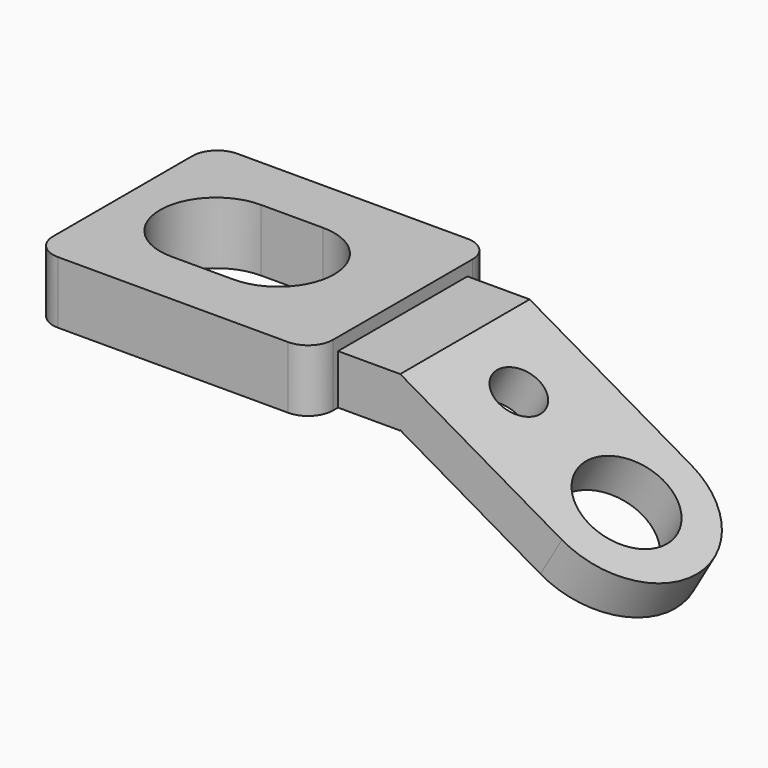
from build123d import *

# Parameters (mm, degrees)
F0_W          = 254
F0_H          = 660.4
F1_DEPTH      = 203.2
F3_DEPTH      = 50.8
F3_DEPTH_BACK = 203.2
F4_R          = 101.6
F6_DEPTH      = 660.4
F8_DEPTH      = 1302.3629254774
F9_R          = 190.5
F9_R_2        = 101.6
F10_DEPTH     = 1302.3629254774


with BuildPart() as f1:
    # F0 (on Top) → F1 (new body)
    with BuildSketch(Plane.XY):
        with Locations((-127, 0)):
            Rectangle(F0_W, F0_H)
    extrude(amount=-F1_DEPTH)

    # F2 (on face) → F3 (join, two sides)
    with BuildSketch(Plane.XY) as f3_sk:
        Polygon((-254, 330.2), (-254, 457.2), (-1397, 457.2), (-1397, -457.2), (-254, -457.2), (-254, -330.2), align=None)
        with BuildLine():
            ThreePointArc((-1016, -228.6), (-1244.6, 0), (-1016, 228.6))
            Line((-1016, 228.6), (-762, 228.6))
            ThreePointArc((-762, 228.6), (-533.4, 0), (-762, -228.6))
            Line((-762, -228.6), (-1016, -228.6))
        make_face(mode=Mode.SUBTRACT)
    extrude(amount=F3_DEPTH)
    extrude(f3_sk.sketch, amount=-F3_DEPTH_BACK)

    # F4
    f4_edges = [f1.edges().sort_by_distance(p)[0] for p in [
        (-254, -457.2, -76.2),
        (-254, 457.2, -76.2),
        (-1397, 457.2, -76.2),
        (-1397, -457.2, -76.2),
    ]]
    fillet(f4_edges, radius=F4_R)

    # F5 (on face) → F6 (join)
    with BuildSketch(Plane.XZ.offset(330.2)):
        Polygon((945.8729460134, -546.1), (0, 0), (-87.2836349805, -151.1796904555), (858.5893110329, -697.2796904555), align=None)
    extrude(amount=-F6_DEPTH)

    # F7 (on face) → F8 (cut, through all)
    with BuildSketch(Plane(origin=(0, 0, 0), x_dir=(0.8660254038, 0, -0.5), z_dir=(0.5, 0, 0.8660254038))):
        with BuildLine():
            ThreePointArc((1092.2, -1.051e-06), (995.4866587762, -233.4866595194), (762, -330.2))
            Line((762, -330.2), (1092.2, -330.2))
            Line((1092.2, -330.2), (1092.2, -1.051e-06))
        make_face()
        with BuildLine():
            ThreePointArc((762, 330.2), (995.4866595194, 233.4866587762), (1092.2, -1.051e-06))
            Line((1092.2, -1.051e-06), (1092.2, 330.2))
            Line((1092.2, 330.2), (762, 330.2))
        make_face()
    extrude(amount=-F8_DEPTH, mode=Mode.SUBTRACT)

    # F9 (on face) → F10 (cut, through all)
    with BuildSketch(Plane(origin=(0, 0, 0), x_dir=(0.8660254038, 0, -0.5), z_dir=(0.5, 0, 0.8660254038))):
        with Locations((762, 0)):
            Circle(F9_R)
        with Locations((254, 0)):
            Circle(F9_R_2)
    extrude(amount=-F10_DEPTH, mode=Mode.SUBTRACT)


solid = f1.part
